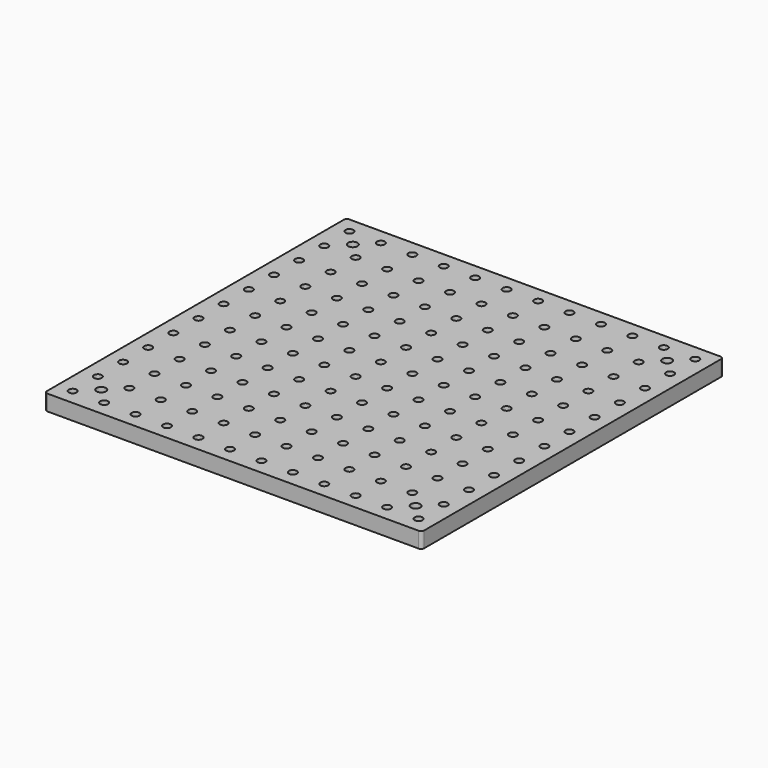
from build123d import *

# Parameters (mm, degrees)
F0_W     = 304.8
F0_H     = 304.8
F1_DEPTH = 12.7
F2_R     = 3.175
F2_R_2   = 3.81
F3_DEPTH = 25.4
F4_R     = 2.54


with BuildPart() as f1:
    # F0 (on Top) → F1 (new body)
    with BuildSketch(Plane.XY):
        Rectangle(F0_W, F0_H)
    extrude(amount=F1_DEPTH)

    # F2 (on face) → F3 (cut)
    with BuildSketch(Plane.XY.offset(12.7)):
        with Locations((-139.7, -139.7)):
            Circle(F2_R)
        with Locations((-139.7, -114.3)):
            Circle(F2_R)
        with Locations((-139.7, -88.9)):
            Circle(F2_R)
        with Locations((-139.7, -63.5)):
            Circle(F2_R)
        with Locations((-139.7, -38.1)):
            Circle(F2_R)
        with Locations((-139.7, -12.7)):
            Circle(F2_R)
        with Locations((-139.7, 12.7)):
            Circle(F2_R)
        with Locations((-139.7, 38.1)):
            Circle(F2_R)
        with Locations((-139.7, 63.5)):
            Circle(F2_R)
        with Locations((-139.7, 88.9)):
            Circle(F2_R)
        with Locations((-139.7, 114.3)):
            Circle(F2_R)
        with Locations((-114.3, -139.7)):
            Circle(F2_R)
        with Locations((-114.3, -114.3)):
            Circle(F2_R)
        with Locations((-114.3, -88.9)):
            Circle(F2_R)
        with Locations((-114.3, -63.5)):
            Circle(F2_R)
        with Locations((-114.3, -38.1)):
            Circle(F2_R)
        with Locations((-114.3, -12.7)):
            Circle(F2_R)
        with Locations((-114.3, 12.7)):
            Circle(F2_R)
        with Locations((-114.3, 38.1)):
            Circle(F2_R)
        with Locations((-114.3, 63.5)):
            Circle(F2_R)
        with Locations((-114.3, 88.9)):
            Circle(F2_R)
        with Locations((-114.3, 114.3)):
            Circle(F2_R)
        with Locations((-88.9, -139.7)):
            Circle(F2_R)
        with Locations((-88.9, -114.3)):
            Circle(F2_R)
        with Locations((-88.9, -88.9)):
            Circle(F2_R)
        with Locations((-88.9, -63.5)):
            Circle(F2_R)
        with Locations((-88.9, -38.1)):
            Circle(F2_R)
        with Locations((-88.9, -12.7)):
            Circle(F2_R)
        with Locations((-88.9, 12.7)):
            Circle(F2_R)
        with Locations((-88.9, 38.1)):
            Circle(F2_R)
        with Locations((-88.9, 63.5)):
            Circle(F2_R)
        with Locations((-88.9, 88.9)):
            Circle(F2_R)
        with Locations((-88.9, 114.3)):
            Circle(F2_R)
        with Locations((-63.5, -139.7)):
            Circle(F2_R)
        with Locations((-63.5, -114.3)):
            Circle(F2_R)
        with Locations((-63.5, -88.9)):
            Circle(F2_R)
        with Locations((-63.5, -63.5)):
            Circle(F2_R)
        with Locations((-63.5, -38.1)):
            Circle(F2_R)
        with Locations((-63.5, -12.7)):
            Circle(F2_R)
        with Locations((-63.5, 12.7)):
            Circle(F2_R)
        with Locations((-63.5, 38.1)):
            Circle(F2_R)
        with Locations((-63.5, 63.5)):
            Circle(F2_R)
        with Locations((-63.5, 88.9)):
            Circle(F2_R)
        with Locations((-63.5, 114.3)):
            Circle(F2_R)
        with Locations((-38.1, -139.7)):
            Circle(F2_R)
        with Locations((-38.1, -114.3)):
            Circle(F2_R)
        with Locations((-38.1, -88.9)):
            Circle(F2_R)
        with Locations((-38.1, -63.5)):
            Circle(F2_R)
        with Locations((-38.1, -38.1)):
            Circle(F2_R)
        with Locations((-38.1, -12.7)):
            Circle(F2_R)
        with Locations((-38.1, 12.7)):
            Circle(F2_R)
        with Locations((-38.1, 38.1)):
            Circle(F2_R)
        with Locations((-38.1, 63.5)):
            Circle(F2_R)
        with Locations((-38.1, 88.9)):
            Circle(F2_R)
        with Locations((-38.1, 114.3)):
            Circle(F2_R)
        with Locations((-12.7, -139.7)):
            Circle(F2_R)
        with Locations((-12.7, -114.3)):
            Circle(F2_R)
        with Locations((-12.7, -88.9)):
            Circle(F2_R)
        with Locations((-12.7, -63.5)):
            Circle(F2_R)
        with Locations((-12.7, -38.1)):
            Circle(F2_R)
        with Locations((-12.7, -12.7)):
            Circle(F2_R)
        with Locations((-12.7, 12.7)):
            Circle(F2_R)
        with Locations((-12.7, 38.1)):
            Circle(F2_R)
        with Locations((-12.7, 63.5)):
            Circle(F2_R)
        with Locations((-12.7, 88.9)):
            Circle(F2_R)
        with Locations((-12.7, 114.3)):
            Circle(F2_R)
        with Locations((12.7, -139.7)):
            Circle(F2_R)
        with Locations((12.7, -114.3)):
            Circle(F2_R)
        with Locations((12.7, -88.9)):
            Circle(F2_R)
        with Locations((12.7, -63.5)):
            Circle(F2_R)
        with Locations((12.7, -38.1)):
            Circle(F2_R)
        with Locations((12.7, -12.7)):
            Circle(F2_R)
        with Locations((12.7, 12.7)):
            Circle(F2_R)
        with Locations((12.7, 38.1)):
            Circle(F2_R)
        with Locations((12.7, 63.5)):
            Circle(F2_R)
        with Locations((12.7, 88.9)):
            Circle(F2_R)
        with Locations((12.7, 114.3)):
            Circle(F2_R)
        with Locations((38.1, -139.7)):
            Circle(F2_R)
        with Locations((38.1, -114.3)):
            Circle(F2_R)
        with Locations((38.1, -88.9)):
            Circle(F2_R)
        with Locations((38.1, -63.5)):
            Circle(F2_R)
        with Locations((38.1, -38.1)):
            Circle(F2_R)
        with Locations((38.1, -12.7)):
            Circle(F2_R)
        with Locations((38.1, 12.7)):
            Circle(F2_R)
        with Locations((38.1, 38.1)):
            Circle(F2_R)
        with Locations((38.1, 63.5)):
            Circle(F2_R)
        with Locations((38.1, 88.9)):
            Circle(F2_R)
        with Locations((38.1, 114.3)):
            Circle(F2_R)
        with Locations((63.5, -139.7)):
            Circle(F2_R)
        with Locations((63.5, -114.3)):
            Circle(F2_R)
        with Locations((63.5, -88.9)):
            Circle(F2_R)
        with Locations((63.5, -63.5)):
            Circle(F2_R)
        with Locations((63.5, -38.1)):
            Circle(F2_R)
        with Locations((63.5, -12.7)):
            Circle(F2_R)
        with Locations((63.5, 12.7)):
            Circle(F2_R)
        with Locations((63.5, 38.1)):
            Circle(F2_R)
        with Locations((63.5, 63.5)):
            Circle(F2_R)
        with Locations((63.5, 88.9)):
            Circle(F2_R)
        with Locations((63.5, 114.3)):
            Circle(F2_R)
        with Locations((88.9, -139.7)):
            Circle(F2_R)
        with Locations((88.9, -114.3)):
            Circle(F2_R)
        with Locations((88.9, -88.9)):
            Circle(F2_R)
        with Locations((88.9, -63.5)):
            Circle(F2_R)
        with Locations((88.9, -38.1)):
            Circle(F2_R)
        with Locations((88.9, -12.7)):
            Circle(F2_R)
        with Locations((88.9, 12.7)):
            Circle(F2_R)
        with Locations((88.9, 38.1)):
            Circle(F2_R)
        with Locations((88.9, 63.5)):
            Circle(F2_R)
        with Locations((88.9, 88.9)):
            Circle(F2_R)
        with Locations((88.9, 114.3)):
            Circle(F2_R)
        with Locations((114.3, -139.7)):
            Circle(F2_R)
        with Locations((114.3, -114.3)):
            Circle(F2_R)
        with Locations((114.3, -88.9)):
            Circle(F2_R)
        with Locations((114.3, -63.5)):
            Circle(F2_R)
        with Locations((114.3, -38.1)):
            Circle(F2_R)
        with Locations((114.3, -12.7)):
            Circle(F2_R)
        with Locations((114.3, 12.7)):
            Circle(F2_R)
        with Locations((114.3, 38.1)):
            Circle(F2_R)
        with Locations((114.3, 63.5)):
            Circle(F2_R)
        with Locations((114.3, 88.9)):
            Circle(F2_R)
        with Locations((114.3, 114.3)):
            Circle(F2_R)
        with Locations((139.7, -139.7)):
            Circle(F2_R)
        with Locations((139.7, -114.3)):
            Circle(F2_R)
        with Locations((139.7, -88.9)):
            Circle(F2_R)
        with Locations((139.7, -63.5)):
            Circle(F2_R)
        with Locations((139.7, -38.1)):
            Circle(F2_R)
        with Locations((139.7, -12.7)):
            Circle(F2_R)
        with Locations((139.7, 12.7)):
            Circle(F2_R)
        with Locations((139.7, 38.1)):
            Circle(F2_R)
        with Locations((139.7, 63.5)):
            Circle(F2_R)
        with Locations((139.7, 88.9)):
            Circle(F2_R)
        with Locations((139.7, 114.3)):
            Circle(F2_R)
        with Locations((-139.7, 139.7)):
            Circle(F2_R)
        with Locations((-114.3, 139.7)):
            Circle(F2_R)
        with Locations((-88.9, 139.7)):
            Circle(F2_R)
        with Locations((-63.5, 139.7)):
            Circle(F2_R)
        with Locations((-38.1, 139.7)):
            Circle(F2_R)
        with Locations((-12.7, 139.7)):
            Circle(F2_R)
        with Locations((12.7, 139.7)):
            Circle(F2_R)
        with Locations((38.1, 139.7)):
            Circle(F2_R)
        with Locations((63.5, 139.7)):
            Circle(F2_R)
        with Locations((88.9, 139.7)):
            Circle(F2_R)
        with Locations((114.3, 139.7)):
            Circle(F2_R)
        with Locations((139.7, 139.7)):
            Circle(F2_R)
        with Locations((-126.816839, -127)):
            Circle(F2_R_2)
        with Locations((-126.816839, 127)):
            Circle(F2_R_2)
        with Locations((127.183161, -127)):
            Circle(F2_R_2)
        with Locations((127.183161, 127)):
            Circle(F2_R_2)
        with Locations((381.183161, -127)):
            Circle(F2_R_2)
        with Locations((381.183161, 127)):
            Circle(F2_R_2)
    extrude(amount=-F3_DEPTH, mode=Mode.SUBTRACT)

    # F4
    f4_edges = [f1.edges().sort_by_distance(p)[0] for p in [
        (-152.4, 152.4, 6.35),
        (152.4, 152.4, 6.35),
        (-152.4, -152.4, 6.35),
        (152.4, -152.4, 6.35),
    ]]
    fillet(f4_edges, radius=F4_R)


solid = f1.part
